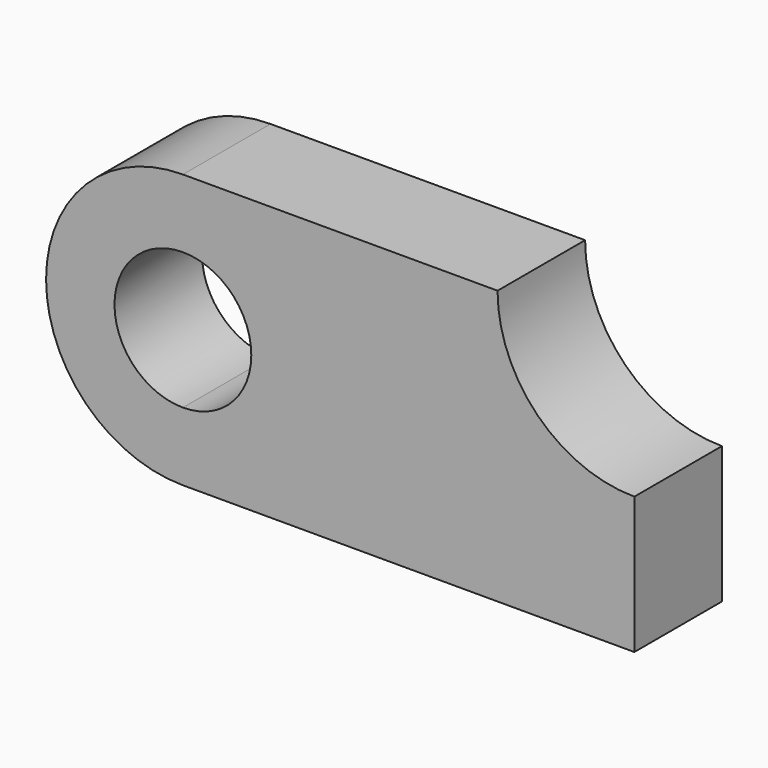
from build123d import *

# Parameters (mm, degrees)
F1_DEPTH = 25.4


with BuildPart() as f1:
    # F0 (on Front) → F1 (new body)
    with BuildSketch(Plane.XZ):
        with BuildLine():
            Line((0, 15.875), (0, 0))
            Line((0, 0), (104.775, 0))
            Line((104.775, 0), (104.775, 31.75))
            ThreePointArc((104.775, 31.75), (82.32436, 41.04936), (73.025, 63.5))
            Line((73.025, 63.5), (0, 63.5))
            Line((0, 63.5), (0, 47.625))
            ThreePointArc((0, 47.625), (11.22532, 42.97532), (15.875, 31.75))
            ThreePointArc((15.875, 31.75), (11.22532, 20.52468), (0, 15.875))
        make_face()
        with BuildLine():
            ThreePointArc((0, 63.5), (-31.75, 31.75), (0, 0))
            Line((0, 0), (0, 15.875))
            ThreePointArc((0, 15.875), (-15.875, 31.75), (0, 47.625))
            Line((0, 47.625), (0, 63.5))
        make_face()
    extrude(amount=F1_DEPTH)


solid = f1.part
